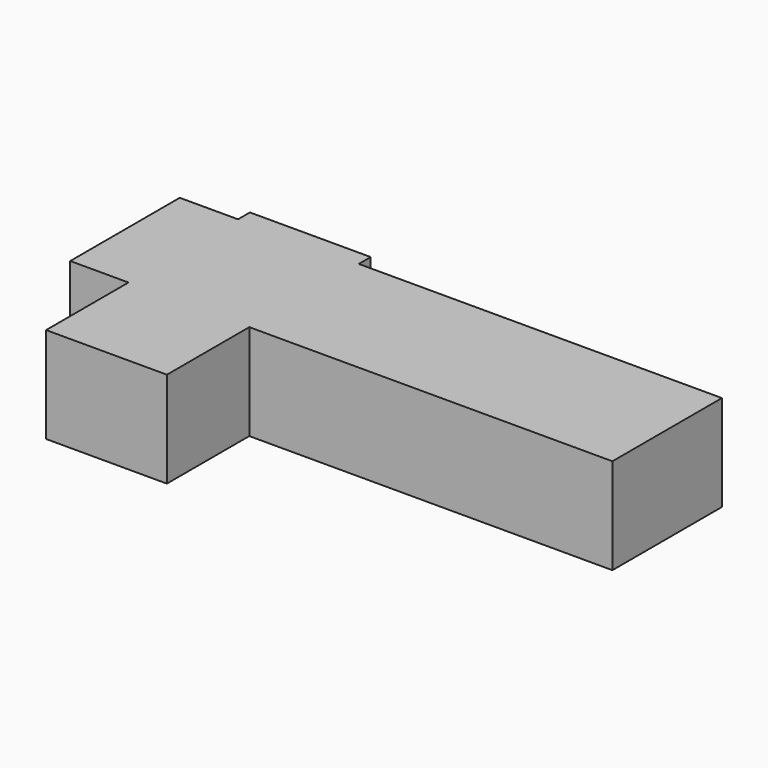
from build123d import *

# Parameters (mm, degrees)
F0_W     = 31.9947600365
F0_H     = 27.2726044059
F0_H_2   = 36.2568199635
F0_W_2   = 96.1607135832
F0_W_3   = 15.4231749475
F0_H_3   = 3.9437785745
F1_DEPTH = 25.4


with BuildPart() as f1:
    # F0 (on Top) → F1 (new body)
    with BuildSketch(Plane.XY):
        with Locations((-40.6870208681, -20.100299269)):
            Rectangle(F0_W, F0_H)
        with Locations((-40.6870208681, 11.6644129157)):
            Rectangle(F0_W, F0_H_2)
        with Locations((23.3907159418, 11.6644129157)):
            Rectangle(F0_W_2, F0_H_2)
        with Locations((-64.39598836, 11.6644129157)):
            Rectangle(F0_W_3, F0_H_2)
        with Locations((-40.6870208681, 31.7647121847)):
            Rectangle(F0_W, F0_H_3)
    extrude(amount=F1_DEPTH)


solid = f1.part
